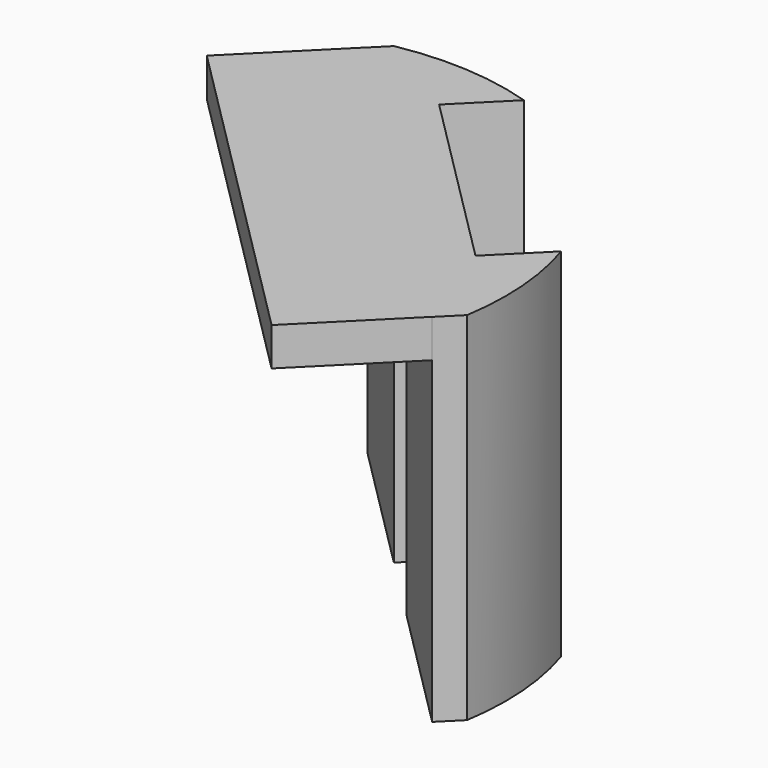
from build123d import *

# Parameters (mm, degrees)
BOX044_W               = 4
BOX044_H               = 7
BOX044_DEPTH           = 25
BOX044_PLACEMENT_ANGLE = 45
CYLINDER100_R          = 22
CYLINDER100_DEPTH      = 28
BOX042_W               = 26.5
BOX042_H               = 20.2
BOX042_DEPTH           = 28
BOX042_PLACEMENT_ANGLE = 45
BOX043_W               = 16.5
BOX043_H               = 36
BOX043_DEPTH           = 28
BOX043_PLACEMENT_ANGLE = 45
BOX045_W               = 10
BOX045_H               = 36
BOX045_DEPTH           = 3
BOX045_PLACEMENT_ANGLE = 45


with BuildPart() as cube023:
    # Box044 → Box044 (new body)
    with BuildSketch(Plane.XY):
        with Locations((2, 3.5)):
            Rectangle(BOX044_W, BOX044_H)
    extrude(amount=BOX044_DEPTH)


with BuildPart() as cube023_1:
    # Box044 placement: moved
    add(cube023.part.moved(Location((17, 12, -28))).rotate(Axis((17, 12, -28), (0, 0, 1)), BOX044_PLACEMENT_ANGLE))


with BuildPart() as cylinder100:
    # Cylinder100 → Cylinder100 (new body)
    with BuildSketch(Plane(origin=(7, 7, -28), x_dir=(1, 0, 0), z_dir=(0, 0, 1))):
        Circle(CYLINDER100_R)
    extrude(amount=CYLINDER100_DEPTH)


with BuildPart() as inner001:
    # Box042 → Box042 (new body)
    with BuildSketch(Plane.XY):
        with Locations((13.25, 10.1)):
            Rectangle(BOX042_W, BOX042_H)
    extrude(amount=BOX042_DEPTH)


with BuildPart() as inner001_1:
    # Box042 placement: moved
    add(inner001.part.moved(Location((24.2, 10, -28))).rotate(Axis((24.2, 10, -28), (0, 0, 1)), BOX042_PLACEMENT_ANGLE))


with BuildPart() as cut106:
    # Box043 → Box043 (new body)
    with BuildSketch(Plane.XY):
        with Locations((8.25, 18)):
            Rectangle(BOX043_W, BOX043_H)
    extrude(amount=BOX043_DEPTH)


with BuildPart() as cut106_1:
    # Box043 placement: moved
    add(cut106.part.moved(Location((27.2, 2, -28))).rotate(Axis((27.2, 2, -28), (0, 0, 1)), BOX043_PLACEMENT_ANGLE))

    # Cut105: cut inner001
    add(inner001_1.part, mode=Mode.SUBTRACT)

    # Common007: intersect Cylinder100
    add(cylinder100.part, mode=Mode.INTERSECT)

    # Cut106: cut Cube023
    add(cube023_1.part, mode=Mode.SUBTRACT)


with BuildPart() as fusion030:
    # Box045 → Box045 (new body)
    with BuildSketch(Plane.XY):
        with Locations((5, 18)):
            Rectangle(BOX045_W, BOX045_H)
    extrude(amount=BOX045_DEPTH)


with BuildPart() as fusion030_1:
    # Box045 placement: moved
    add(fusion030.part.moved(Location((20.19, -5, -3))).rotate(Axis((20.19, -5, -3), (0, 0, 1)), BOX045_PLACEMENT_ANGLE))

    # Fusion030: union Cut106
    add(cut106_1.part)


solid = fusion030_1.part
